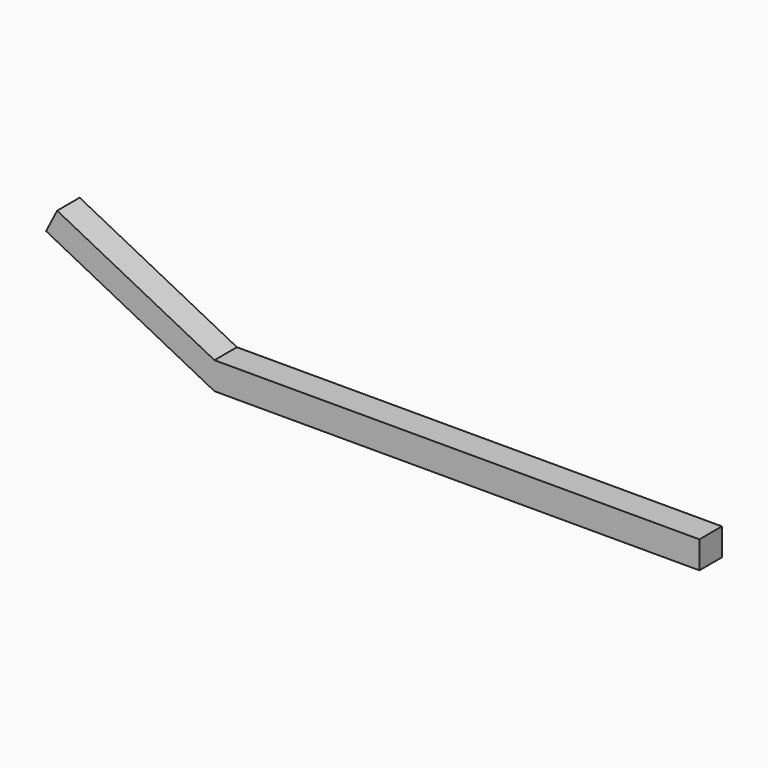
from build123d import *

# Parameters (mm, degrees)
F1_DEPTH = 5.08
F4_DEPTH = 5.08


with BuildPart() as f1:
    # F0 (on Front) → F1 (new body)
    with BuildSketch(Plane.XZ):
        Polygon((47.7003678679, -8.732332848), (46.3905222714, -5.2393996157), (-41.3694269955, -5.2393996157), (-79.3550759554, 16.3731239736), (-81.8319656057, 12.019802605), (-41.3694269955, -8.732332848), align=None)
    extrude(amount=F1_DEPTH)


with BuildPart() as f4:
    # F3 (on Front) → F4 (new body)
    with BuildSketch(Plane.XZ):
        Polygon((44.6835160255, 1.7520437361), (44.6835160255, 6.6843586974), (-42.9144240916, 6.6843586974), (-71.3245719671, 21.2276466191), (-73.3251918619, 17.3194583635), (-42.9144240916, 1.7520437361), align=None)
    extrude(amount=F4_DEPTH)


solid = f4.part
